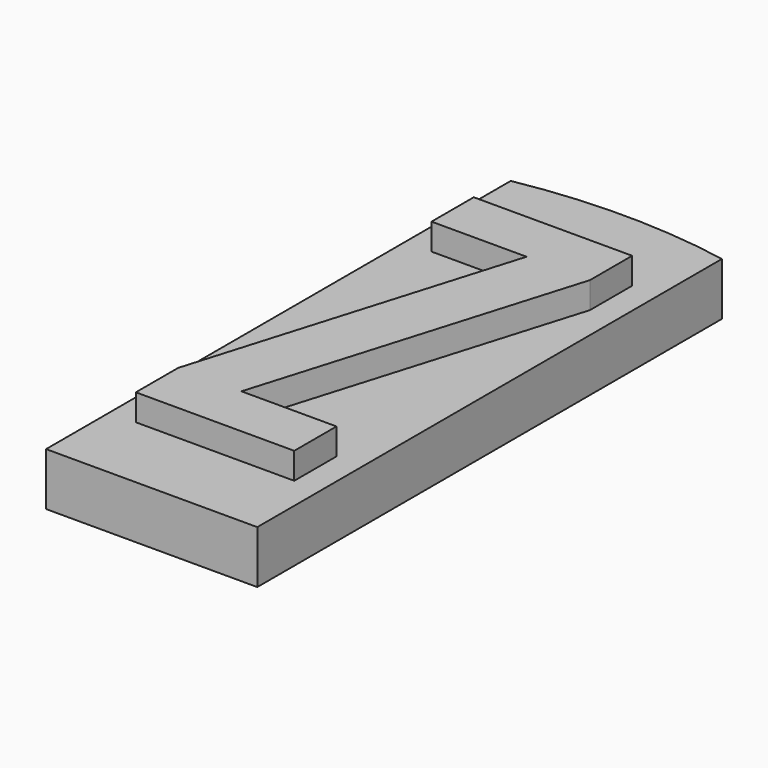
from build123d import *

# Parameters (mm, degrees)
PAD_DEPTH    = 1
PAD001_DEPTH = 0.5


with BuildPart() as part:
    # Sketch → Pad (new body)
    with BuildSketch(Plane.XY):
        with BuildLine():
            Line((2, 5.5), (2, -5.5))
            Line((2, -5.5), (-2, -5.5))
            Line((-2, -5.5), (-2, 5.5))
            ThreePointArc((2, 5.5), (0, 5.683346), (-2, 5.5))
        make_face()
    extrude(amount=PAD_DEPTH)

    # Sketch001 → Pad001 (new body)
    with BuildSketch(Plane.XY.offset(1)):
        Polygon((-1.5, 4), (1.5, 4), (1.5, 3), (-0.3, -3), (1.5, -3), (1.5, -4), (-1.5, -4), (-1.5, -3), (0.3, 3), (-1.5, 3), align=None)
    extrude(amount=PAD001_DEPTH)


solid = part.part
